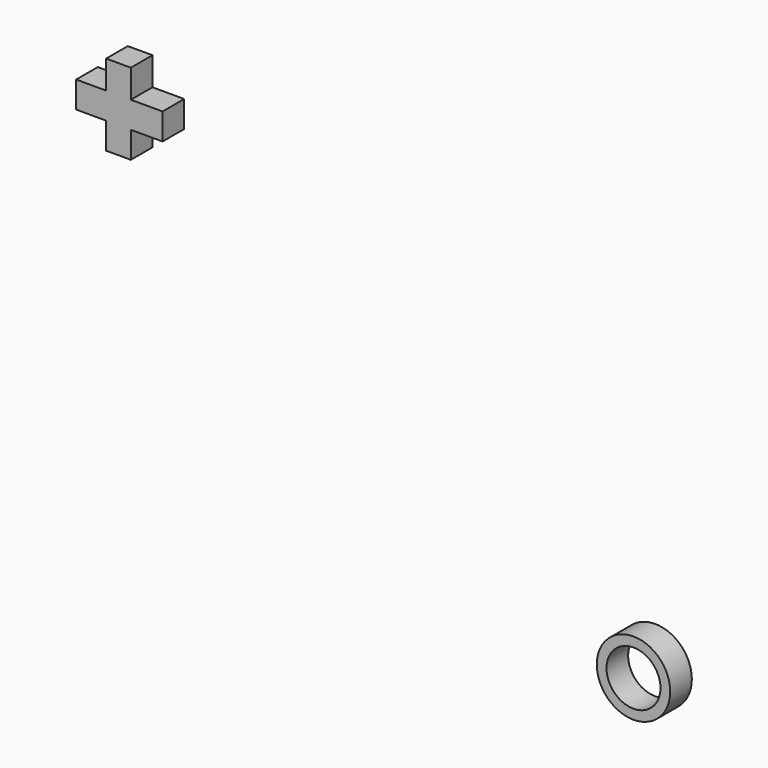
from build123d import *

# Parameters (mm, degrees)
F0_R     = 3.446998561
F1_DEPTH = 2.54
F2_R     = 2.5339910603
F3_DEPTH = 25.146
F4_W     = 2.8160847723
F4_H     = 1.1595673859
F4_W_2   = 2.3191347718
F4_H_2   = 2.650430426
F4_H_3   = 1.3252161443
F4_H_4   = 2.4847816676
F5_DEPTH = 2.54


with BuildPart() as f1:
    # F0 (on Front) → F1 (new body)
    with BuildSketch(Plane.XZ):
        Circle(F0_R)
    extrude(amount=F1_DEPTH)

    # F2 (on Front) → F3 (cut)
    with BuildSketch(Plane.XZ):
        Circle(F2_R)
    extrude(amount=F3_DEPTH, mode=Mode.SUBTRACT)


with BuildPart() as f5:
    # F4 (on Front) → F5 (new body)
    with BuildSketch(Plane.XZ):
        with Locations((-50.938045606, 31.8880435079)):
            Rectangle(F4_W, F4_H)
        with Locations((-48.3704358339, 33.7930424139)):
            Rectangle(F4_W_2, F4_H_2)
        with Locations((-48.3704358339, 31.8880435079)):
            Rectangle(F4_W_2, F4_H)
        with Locations((-50.938045606, 30.6456517428)):
            Rectangle(F4_W, F4_H_3)
        with Locations((-45.8028260618, 31.8880435079)):
            Rectangle(F4_W, F4_H)
        with Locations((-48.3704358339, 30.6456517428)):
            Rectangle(F4_W_2, F4_H_3)
        Polygon((-44.229131192, 32.4678272009), (-44.3947836757, 32.4678272009), (-44.3947836757, 31.308259815), (-47.210868448, 31.308259815), (-47.210868448, 29.9830436707), (-44.229131192, 29.9830436707), align=None)
        with Locations((-48.3704358339, 28.7406528369)):
            Rectangle(F4_W_2, F4_H_4)
    extrude(amount=F5_DEPTH)


solid = Compound([f1.part, f5.part])
